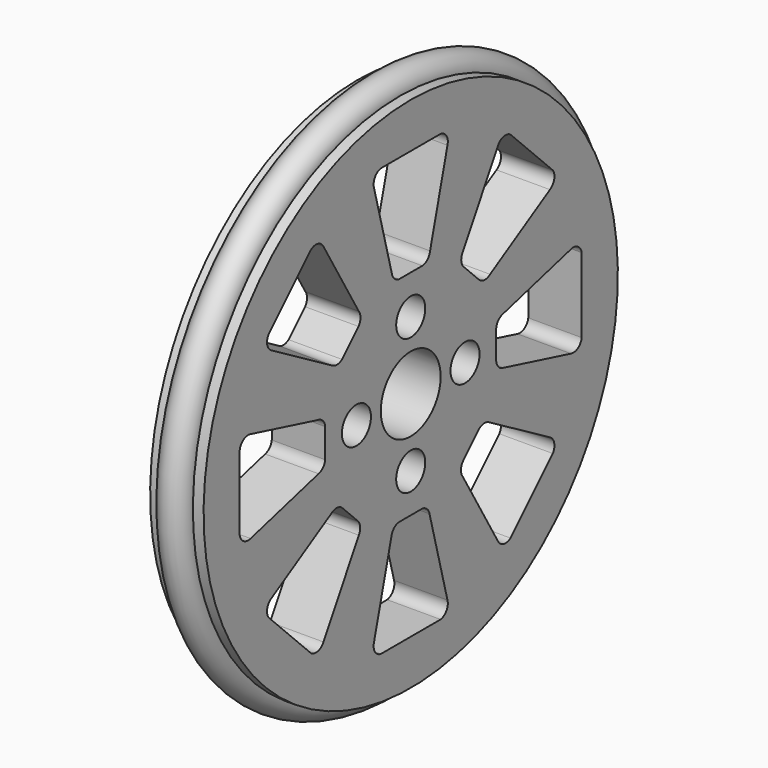
from build123d import *

# Parameters (mm, degrees)
POCKET_DEPTH          = 142.402674
POLARPATTERN_COUNT    = 8
SKETCH003_R           = 1.7
POCKET001_DEPTH       = 142.402674
POLARPATTERN001_COUNT = 4
SKETCH001_R           = 1.5


with BuildPart() as roue:
    # Sketch → Revolution (revolve)
    with BuildSketch(Plane.XZ):
        with BuildLine():
            Line((-2.5, 3.5), (-2.5, 24.225))
            Line((-2.5, 24.225), (-1.5, 24.225))
            ThreePointArc((-1.5, 24.225), (0, 22.72499), (1.5, 24.225))
            Line((2.5, 24.225), (1.5, 24.225))
            Line((2.5, 24.225), (2.5, 3.5))
            Line((2.5, 3.5), (-2.5, 3.5))
        make_face()
    revolve(axis=Axis((0, 0, 0), (1, 0, 0)))

    # Sketch002 (on Face3 of Revolution) → Pocket (cut, through all)
    with BuildSketch(Plane(origin=(-2.5, 0, 0), x_dir=(0, 0, -1), z_dir=(-1, 0, 0))):
        with BuildLine():
            ThreePointArc((-3.5, 20), (-4.18612, 19.545727), (-4.299241, 18.730664))
            Line((-2.263466, 10.859557), (-4.299241, 18.730664))
            ThreePointArc((-2.263466, 10.859557), (-1.964144, 10.273215), (-1.365191, 10))
            Line((-1.365191, 10), (1.365191, 10))
            ThreePointArc((1.365191, 10), (1.903582, 10.257866), (2.199124, 10.776532))
            Line((2.199124, 10.776532), (4.299241, 18.730664))
            ThreePointArc((4.299241, 18.730664), (4.18612, 19.545727), (3.5, 20))
            Line((-3.5, 20), (3.5, 20))
        make_face()
    pocket = extrude(amount=-POCKET_DEPTH, mode=Mode.SUBTRACT)

    # PolarPattern: Pocket ×8 about axis
    polarpattern_axis = Axis((-2.5, 0, 0), (-1, 0, 0))
    for i in range(1, POLARPATTERN_COUNT):
        add(pocket.rotate(polarpattern_axis, i * 360 / POLARPATTERN_COUNT), mode=Mode.SUBTRACT)

    # Sketch003 (on Face69 of PolarPattern) → Pocket001 (cut, through all)
    with BuildSketch(Plane(origin=(-2.5, 0, 0), x_dir=(0, 0, -1), z_dir=(-1, 0, 0))):
        with Locations((0, 6.35)):
            Circle(SKETCH003_R)
    pocket001 = extrude(amount=-POCKET001_DEPTH, mode=Mode.SUBTRACT)

    # PolarPattern001: Pocket001 ×4 about axis
    polarpattern001_axis = Axis((-2.5, 0, 0), (-1, 0, 0))
    for i in range(1, POLARPATTERN001_COUNT):
        add(pocket001.rotate(polarpattern001_axis, i * 360 / POLARPATTERN001_COUNT), mode=Mode.SUBTRACT)


with BuildPart() as joint:
    # Sketch001 → Revolution001 (revolve)
    with BuildSketch(Plane.XZ):
        with Locations((0, 24.225)):
            Circle(SKETCH001_R)
    revolve(axis=Axis((0, 0, 0), (1, 0, 0)))


solid = Compound([roue.part, joint.part])
